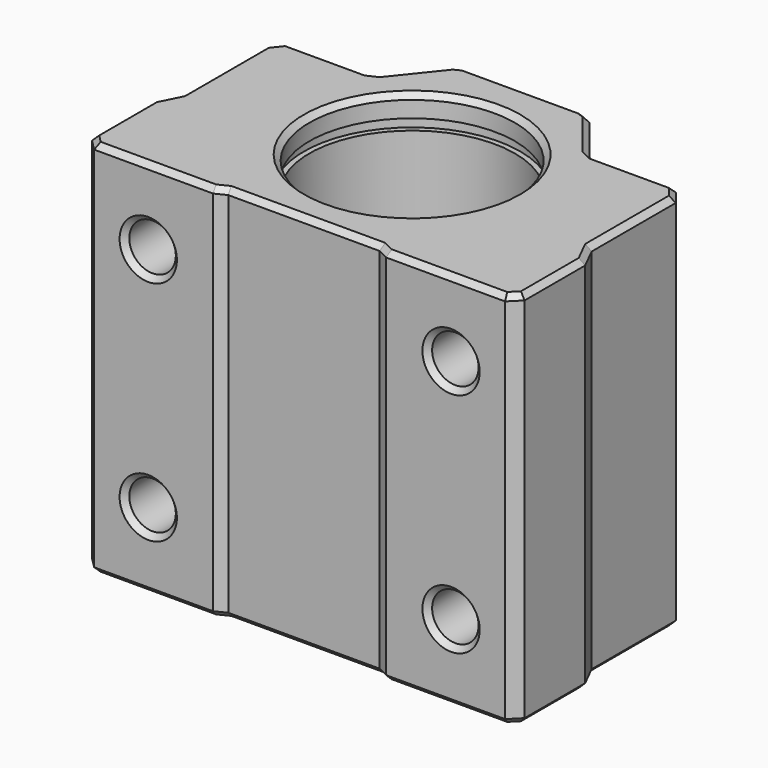
from build123d import *

# Parameters (mm, degrees)
F0_R          = 9.5
F1_DEPTH      = 17.5
F1_DEPTH_BACK = 17.5
F2_R          = 2.15
F3_DEPTH      = 25
F4_SIZE       = 0.5
F5_R          = 9.5
F5_R_2        = 8.5
F6_DEPTH      = 2
F8_R          = 10
F9_DEPTH      = 1
F10_SIZE      = 0.5
F11_SIZE      = 0.5
F12_SIZE      = 0.5


with BuildPart() as f1:
    # F0 (on Top) → F1 (new body, two sides)
    with BuildSketch(Plane.XY) as f1_sk:
        Polygon((8, -13), (19, -13), (20, -12), (20, -5), (19, -3), (19, 6.723037264), (18, 8), (10, 8), (6, 13), (-6, 13), (-10, 8), (-18, 8), (-19, 6.723037264), (-19, -3), (-20, -5), (-20, -12), (-19, -13), (-8, -13), (-7, -12.5), (7, -12.5), align=None)
        Circle(F0_R, mode=Mode.SUBTRACT)
    extrude(amount=F1_DEPTH)
    extrude(f1_sk.sketch, amount=-F1_DEPTH_BACK)

    # F2 (on face) → F3 (cut)
    with BuildSketch(Plane.XZ.offset(13)):
        with Locations((-14, 10.5)):
            Circle(F2_R)
        with Locations((14, 10.5)):
            Circle(F2_R)
        with Locations((14, -10.5)):
            Circle(F2_R)
        with Locations((-14, -10.5)):
            Circle(F2_R)
    extrude(amount=-F3_DEPTH, mode=Mode.SUBTRACT)

    # F4
    f4_edges = [f1.edges().sort_by_distance(p)[0] for p in [
        (-16.15, 8, 10.5),
        (-16.15, 8, -10.5),
        (11.85, 8, -10.5),
        (11.85, 8, 10.5),
        (-16.15, -13, 10.5),
        (-16.15, -13, -10.5),
        (11.85, -13, -10.5),
        (11.85, -13, 10.5),
    ]]
    chamfer(f4_edges, length=F4_SIZE)

    # F5 (on face) → F6 (join)
    with BuildSketch(Plane(origin=(0, 0, -17.5), x_dir=(1, 0, 0), z_dir=(0, 0, -1))):
        Circle(F5_R)
        Circle(F5_R_2, mode=Mode.SUBTRACT)
    extrude(amount=-F6_DEPTH)

    # F8 (on offset) → F9 (cut)
    with BuildSketch(Plane.XY.offset(15.5)):
        Circle(F8_R)
    extrude(amount=-F9_DEPTH, mode=Mode.SUBTRACT)

    # F10
    f10_edges = [f1.edges().sort_by_distance(p)[0] for p in [
        (-10, 8, 0),
        (-6, 13, 0),
        (6, 13, 0),
        (10, 8, 0),
    ]]
    chamfer(f10_edges, length=F10_SIZE)

    # F11
    f11_edges = [f1.edges().sort_by_distance(p)[0] for p in [
        (14.25, 8, 17.5),
        (10.093826, 8.195217, 17.5),
        (18.5, 7.361519, 17.5),
        (8, 10.5, 17.5),
        (19, 1.861519, 17.5),
        (5.906174, 12.804783, 17.5),
        (19.5, -4, 17.5),
        (0, 13, 17.5),
        (20, -8.5, 17.5),
        (-5.906174, 12.804783, 17.5),
        (19.5, -12.5, 17.5),
        (-8, 10.5, 17.5),
        (13.5, -13, 17.5),
        (-10.093826, 8.195217, 17.5),
        (7.5, -12.75, 17.5),
        (-14.25, 8, 17.5),
        (0, -12.5, 17.5),
        (-18.5, 7.361519, 17.5),
        (-7.5, -12.75, 17.5),
        (-19, 1.861519, 17.5),
        (-13.5, -13, 17.5),
        (-19.5, -4, 17.5),
        (-19.5, -12.5, 17.5),
        (-20, -8.5, 17.5),
        (-9.5, 0, 17.5),
    ]]
    chamfer(f11_edges, length=F11_SIZE)

    # F12
    f12_edges = [f1.edges().sort_by_distance(p)[0] for p in [
        (14.25, 8, -17.5),
        (10.093826, 8.195217, -17.5),
        (18.5, 7.361519, -17.5),
        (8, 10.5, -17.5),
        (19, 1.861519, -17.5),
        (5.906174, 12.804783, -17.5),
        (19.5, -4, -17.5),
        (0, 13, -17.5),
        (20, -8.5, -17.5),
        (-5.906174, 12.804783, -17.5),
        (19.5, -12.5, -17.5),
        (-8, 10.5, -17.5),
        (13.5, -13, -17.5),
        (-10.093826, 8.195217, -17.5),
        (7.5, -12.75, -17.5),
        (-14.25, 8, -17.5),
        (0, -12.5, -17.5),
        (-18.5, 7.361519, -17.5),
        (-7.5, -12.75, -17.5),
        (-19, 1.861519, -17.5),
        (-13.5, -13, -17.5),
        (-19.5, -4, -17.5),
        (-19.5, -12.5, -17.5),
        (-20, -8.5, -17.5),
        (-8.5, 0, -17.5),
    ]]
    chamfer(f12_edges, length=F12_SIZE)


solid = f1.part
